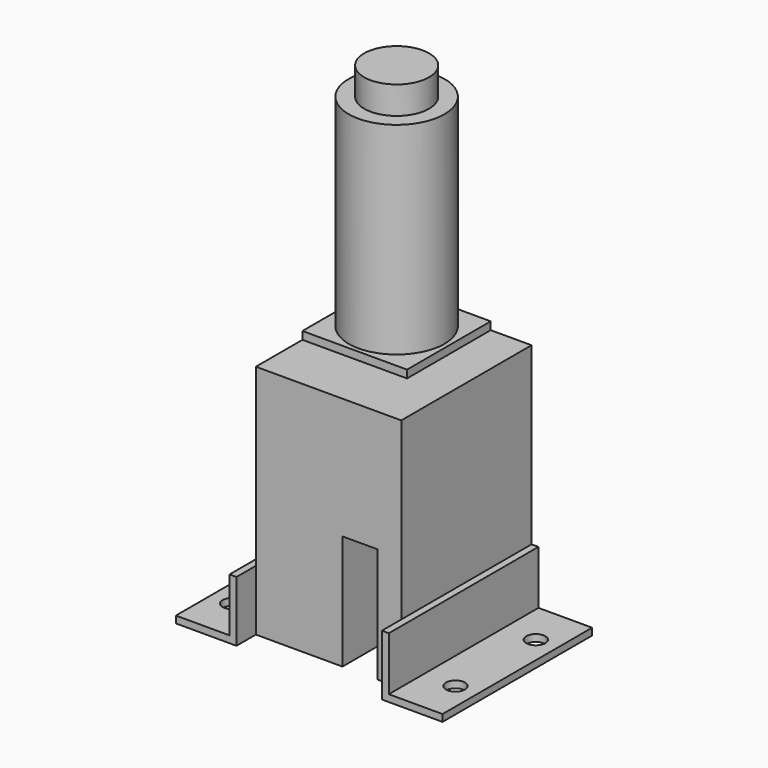
from build123d import *

# Parameters (mm, degrees)
F1_DEPTH  = 47.752
F2_W      = 30.6832
F2_H      = 2.286
F3_DEPTH  = 30.6832
F4_R      = 14.0335
F5_DEPTH  = 59.309
F6_R      = 9.525
F7_DEPTH  = 8.128
F9_DEPTH  = 54.864
F10_R     = 2.794
F11_DEPTH = 2.032


with BuildPart() as f1:
    # F0 (on Front) → F1 (new body)
    with BuildSketch(Plane.XZ):
        Polygon((21.3233, 34.5948), (-21.3233, 34.5948), (-21.3233, -34.5948), (4.0767, -34.5948), (4.0767, -0.964703), (14.3891, -0.964703), (14.3891, -34.5948), (21.3233, -34.5948), align=None)
    extrude(amount=F1_DEPTH)

    # F8 (on Front) → F9 (join)
    with BuildSketch(Plane.XZ):
        Polygon((21.3233, -16.8148), (21.3233, -34.5948), (39.1033, -34.5948), (39.1033, -32.5628), (23.3553, -32.5628), (23.3553, -16.8148), align=None)
        Polygon((-39.1033, -34.5948), (-21.3233, -34.5948), (-21.3233, -16.8148), (-23.3553, -16.8148), (-23.3553, -32.5628), (-39.1033, -32.5628), align=None)
    extrude(amount=F9_DEPTH)

    # F10 (on face) → F11 (cut)
    with BuildSketch(Plane.XY.offset(-32.5628)):
        with Locations((32.7533, -42.164)):
            Circle(F10_R)
        with Locations((32.7533, -12.7)):
            Circle(F10_R)
        with Locations((-32.7533, -12.7)):
            Circle(F10_R)
        with Locations((-32.7533, -42.164)):
            Circle(F10_R)
    extrude(amount=-F11_DEPTH, mode=Mode.SUBTRACT)


with BuildPart() as f3:
    # F2 (on face) → F3 (new body)
    with BuildSketch(Plane(origin=(0, 0, 0), x_dir=(-1, 0, 0), z_dir=(0, 1, 0))):
        with Locations((5.9817, 35.7378)):
            Rectangle(F2_W, F2_H)
    extrude(amount=-F3_DEPTH)

    # F4 (on face) → F5 (join)
    with BuildSketch(Plane.XY.offset(36.8808)):
        with Locations((-5.9436, -15.3797)):
            Circle(F4_R)
    extrude(amount=F5_DEPTH)

    # F6 (on face) → F7 (join)
    with BuildSketch(Plane.XY.offset(96.1898)):
        with Locations((-5.8801, -15.4432)):
            Circle(F6_R)
    extrude(amount=F7_DEPTH)


solid = Compound([f1.part, f3.part])
